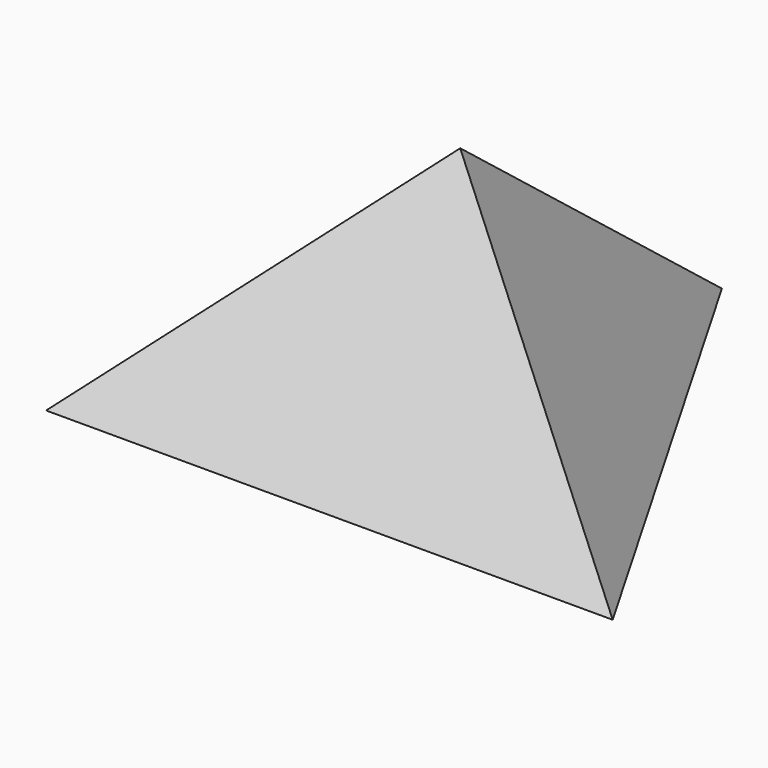
from build123d import *


with BuildPart() as f3:
    # F0 (on Top) → F3 section 0
    with BuildSketch(Plane.XY, mode=Mode.PRIVATE) as f3_s0:
        Polygon((110.439969, -63.762546), (0, 127.525091), (-110.439969, -63.762546), align=None)
    loft([f3_s0.sketch, Vertex(0, 0, 100)])


solid = f3.part
